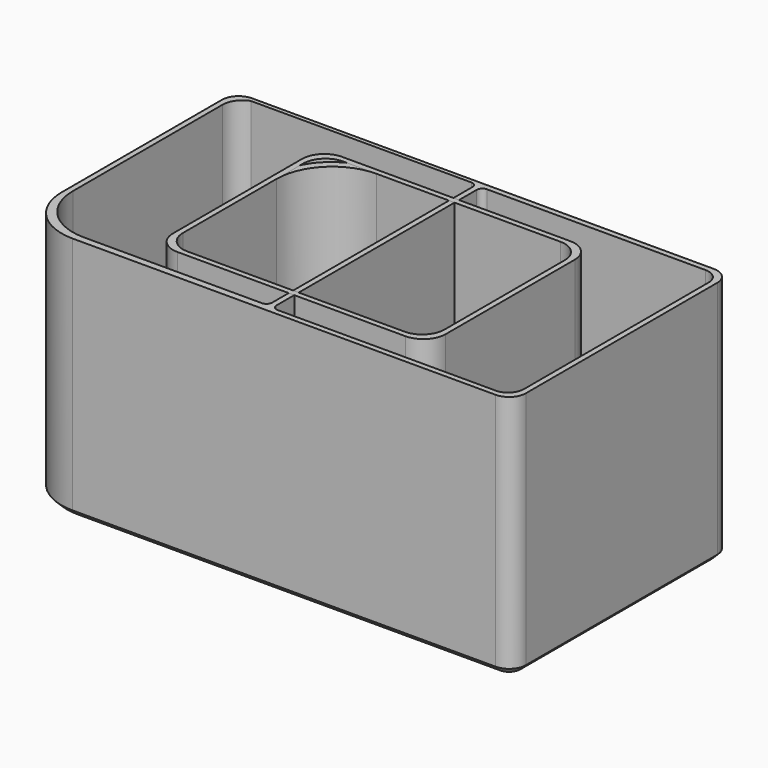
from build123d import *

# Parameters (mm, degrees)
PAD_DEPTH       = 44
POCKET_DEPTH    = 43
CHAMFER_SIZE    = 1
PAD001_DEPTH    = 44
POCKET001_DEPTH = 42
CHAMFER001_SIZE = 1
PAD002_DEPTH    = 44
POCKET002_DEPTH = 43
CHAMFER002_SIZE = 1


with BuildPart() as body:
    # Sketch → Pad (new body)
    with BuildSketch(Plane.XY):
        with BuildLine():
            Line((-24.5, 8.5), (-24.5, -14.5))
            ThreePointArc((-24.5, -14.5), (-23.328427, -17.328427), (-20.5, -18.5))
            Line((-20.5, -18.5), (20.5, -18.5))
            ThreePointArc((20.5, -18.5), (23.328427, -17.328427), (24.5, -14.5))
            Line((24.5, -14.5), (24.5, 14.5))
            ThreePointArc((24.5, 14.5), (23.328427, 17.328427), (20.5, 18.5))
            Line((20.5, 18.5), (-14.5, 18.5))
            ThreePointArc((-14.5, 18.5), (-21.571068, 15.571068), (-24.5, 8.5))
        make_face()
    extrude(amount=PAD_DEPTH)

    # Sketch001 (on Face10 of Pad) → Pocket (cut)
    with BuildSketch(Plane.XY.offset(44)):
        with BuildLine():
            Line((-23.5, 7.5), (-23.5, -13.501274))
            ThreePointArc((-23.5, -13.501274), (-22.3288, -16.3288), (-19.501274, -17.5))
            Line((-19.501274, -17.5), (19.501274, -17.5))
            ThreePointArc((19.501274, -17.5), (22.3288, -16.3288), (23.5, -13.501274))
            Line((23.5, -13.501274), (23.5, 13.501274))
            ThreePointArc((23.5, 13.501274), (22.3288, 16.3288), (19.501274, 17.5))
            Line((19.501274, 17.5), (-13.5, 17.5))
            ThreePointArc((-13.5, 17.5), (-20.571068, 14.571068), (-23.5, 7.5))
        make_face()
    extrude(amount=-POCKET_DEPTH, mode=Mode.SUBTRACT)

    # Chamfer
    chamfer_edges = [body.edges().sort_by_distance(p)[0] for p in [
        (0, -18.5, 0),
        (23.328427, -17.328427, 0),
        (24.5, 0, 0),
        (23.328427, 17.328427, 0),
        (3, 18.5, 0),
        (-21.571068, 15.571068, 0),
        (-24.5, -3, 0),
        (-23.328427, -17.328427, 0),
    ]]
    chamfer(chamfer_edges, length=CHAMFER_SIZE)


with BuildPart() as body001:
    # Sketch002 → Pad001 (new body)
    with BuildSketch(Plane.XY):
        with BuildLine():
            Line((-44.5, 21.5), (-44.5, -14.5))
            ThreePointArc((-44.5, -14.5), (-41.571068, -21.571068), (-34.5, -24.5))
            Line((-34.5, -24.5), (41.5, -24.5))
            ThreePointArc((41.5, -24.5), (43.62132, -23.62132), (44.5, -21.5))
            Line((44.5, -21.5), (44.5, 21.5))
            ThreePointArc((44.5, 21.5), (43.62132, 23.62132), (41.5, 24.5))
            Line((41.5, 24.5), (-41.5, 24.5))
            ThreePointArc((-41.5, 24.5), (-43.62132, 23.62132), (-44.5, 21.5))
        make_face()
    extrude(amount=PAD001_DEPTH)

    # Sketch003 (on Face10 of Pad001) → Pocket001 (cut)
    with BuildSketch(Plane.XY.offset(44)):
        with BuildLine():
            Line((-43.5, 20.392611), (-43.5, -13.236164))
            ThreePointArc((-43.5, -13.236164), (-40.571068, -20.307232), (-33.5, -23.236164))
            Line((-33.5, -23.236164), (-1.504851, -23.236164))
            ThreePointArc((-1.504851, -23.236164), (-0.794314, -22.94185), (-0.5, -22.231313))
            Line((-0.5, 22.758984), (-0.5, -22.231313))
            ThreePointArc((-0.5, 22.758984), (-0.794314, 23.469522), (-1.504851, 23.763836))
            Line((-1.504851, 23.763836), (-41.123325, 23.763836))
            ThreePointArc((-41.123325, 23.763836), (-42.846102, 22.454997), (-43.5, 20.392611))
        make_face()
        with BuildLine():
            Line((43.5, -20.647457), (43.5, 20.822941))
            ThreePointArc((43.5, 20.822941), (42.715908, 22.715908), (40.822941, 23.5))
            Line((40.822941, 23.5), (1.531368, 23.5))
            ThreePointArc((1.531368, 23.5), (0.802081, 23.197919), (0.5, 22.468632))
            Line((0.5, 22.468632), (0.5, -22.468632))
            ThreePointArc((0.5, -22.468632), (0.802081, -23.197919), (1.531368, -23.5))
            Line((1.531368, -23.5), (41.020852, -23.5))
            ThreePointArc((41.020852, -23.5), (42.793601, -22.537111), (43.5, -20.647457))
        make_face()
    extrude(amount=-POCKET001_DEPTH, mode=Mode.SUBTRACT)

    # Chamfer001
    chamfer001_edges = [body001.edges().sort_by_distance(p)[0] for p in [
        (3.5, -24.5, 0),
        (43.62132, -23.62132, 0),
        (44.5, 0, 0),
        (43.62132, 23.62132, 0),
        (0, 24.5, 0),
        (-44.5, 3.5, 0),
        (-41.571068, -21.571068, 0),
        (-43.62132, 23.62132, 0),
    ]]
    chamfer(chamfer001_edges, length=CHAMFER001_SIZE)


with BuildPart() as body002:
    # Sketch004 → Pad002 (new body)
    with BuildSketch(Plane.XY):
        with BuildLine():
            Line((-24.5, 14.5), (-24.5, -14.5))
            ThreePointArc((-24.5, -14.5), (-23.328427, -17.328427), (-20.5, -18.5))
            Line((-20.5, -18.5), (20.5, -18.5))
            ThreePointArc((20.5, -18.5), (23.328427, -17.328427), (24.5, -14.5))
            Line((24.5, -14.5), (24.5, 14.5))
            ThreePointArc((24.5, 14.5), (23.328427, 17.328427), (20.5, 18.5))
            Line((20.5, 18.5), (-20.5, 18.5))
            ThreePointArc((-20.5, 18.5), (-23.328427, 17.328427), (-24.5, 14.5))
        make_face()
    extrude(amount=PAD002_DEPTH)

    # Sketch005 (on Face10 of Pad002) → Pocket002 (cut)
    with BuildSketch(Plane.XY.offset(44)):
        with BuildLine():
            Line((-23.5, 13.5), (-23.5, -13.501261))
            ThreePointArc((-23.5, -13.501261), (-22.328796, -16.328796), (-19.501261, -17.5))
            Line((-19.501261, -17.5), (19.501261, -17.5))
            ThreePointArc((19.501261, -17.5), (22.328796, -16.328796), (23.5, -13.501261))
            Line((23.5, -13.501261), (23.5, 13.501261))
            ThreePointArc((23.5, 13.501261), (22.328796, 16.328796), (19.501261, 17.5))
            Line((19.501261, 17.5), (-19.5, 17.5))
            ThreePointArc((-19.5, 17.5), (-22.328427, 16.328427), (-23.5, 13.5))
        make_face()
    extrude(amount=-POCKET002_DEPTH, mode=Mode.SUBTRACT)

    # Chamfer002
    chamfer002_edges = [body002.edges().sort_by_distance(p)[0] for p in [
        (0, -18.5, 0),
        (23.328427, -17.328427, 0),
        (24.5, 0, 0),
        (23.328427, 17.328427, 0),
        (0, 18.5, 0),
        (-23.328427, 17.328427, 0),
        (-24.5, 0, 0),
        (-23.328427, -17.328427, 0),
    ]]
    chamfer(chamfer002_edges, length=CHAMFER002_SIZE)


solid = Compound([body.part, body001.part, body002.part])
